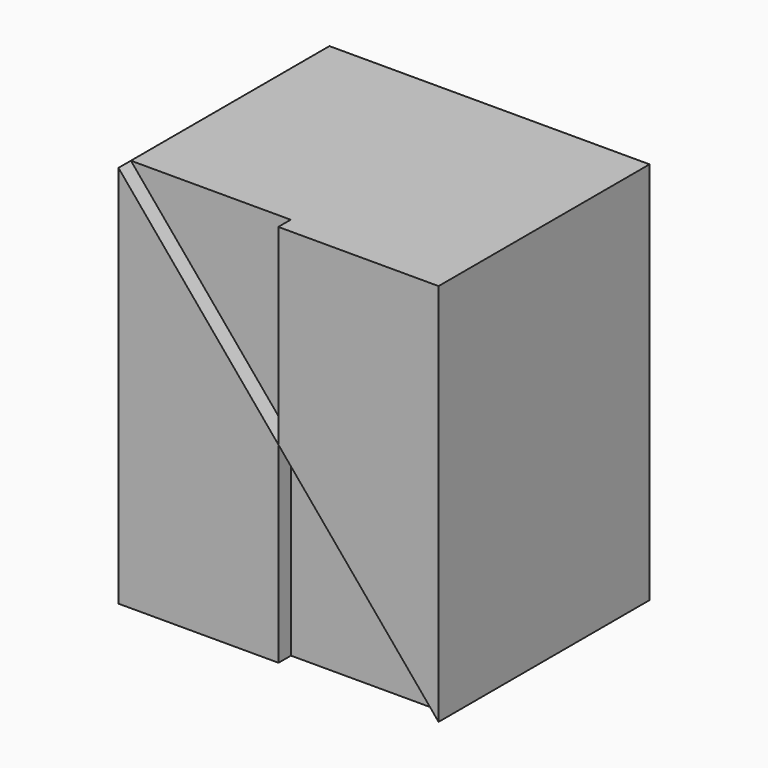
from build123d import *

# Parameters (mm, degrees)
F0_W     = 131.0434639454
F0_H     = 157.073289156
F1_DEPTH = 38.1
F3_DEPTH = 25.4
F4_DEPTH = 31.75
F5_DEPTH = 25.4
F6_DEPTH = 25.4


with BuildPart() as f1:
    # F0 (on Front) → F1 (new body, symmetric)
    with BuildSketch(Plane.XZ):
        with Locations((0.093087554, -0.1957640052)):
            Rectangle(F0_W, F0_H)
    extrude(amount=F1_DEPTH, both=True)

    # F2 (on face) → F3 (join)
    with BuildSketch(Plane.XZ.offset(38.1)):
        Polygon((65.6148195267, -78.7324085832), (0.093087554, -0.1957640052), (0.0465768162, -0.2515134058), (0.093087554, -78.7324085832), align=None)
        Polygon((0.0464857272, -0.0978123848), (0, 78.3408805728), (-65.4286444187, 78.3408805728), (0.0113244291, -0.0977598578), align=None)
    extrude(amount=F3_DEPTH)

    # F4 (add): a face of the model
    f4_faces = [f1.faces().sort_by_distance(p)[0] for p in [
        (0.0930765329, -38.1, -0.1771720733),
    ]]
    extrude(f4_faces, amount=F4_DEPTH)

    # F5 (add): a face of the model
    f5_faces = [f1.faces().sort_by_distance(p)[0] for p in [
        (0.093087554, 38.1, -0.1957640052),
    ]]
    extrude(f5_faces, amount=-F5_DEPTH)

    # F6 (add): a face of the model
    f6_faces = [f1.faces().sort_by_distance(p)[0] for p in [
        (0.093087554, 38.1, -0.1957640052),
    ]]
    extrude(f6_faces, amount=-F6_DEPTH)


solid = f1.part
